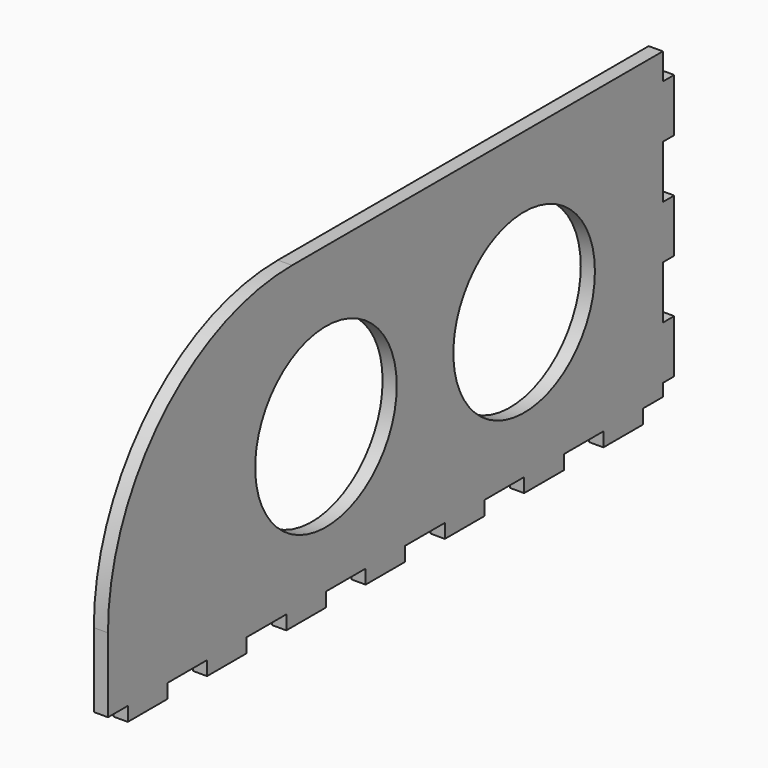
from build123d import *

# Parameters (mm, degrees)
SKETCH065_W     = 200
SKETCH065_H     = 90
PAD032_DEPTH    = 4
SKETCH064_R     = 25
SKETCH064_W     = 7
SKETCH064_H     = 4
SKETCH064_W_2   = 14
SKETCH064_W_3   = 4
SKETCH064_H_2   = 15
SKETCH064_H_3   = 7.5
POCKET028_DEPTH = 4
FILLET001_R     = 65


with BuildPart() as part:
    # Sketch065 → Pad032 (new body)
    with BuildSketch(Plane.YZ):
        Rectangle(SKETCH065_W, SKETCH065_H)
    extrude(amount=PAD032_DEPTH)

    # Sketch064 (on Face6 of Pad032) → Pocket028 (cut)
    with BuildSketch(Plane.YZ.offset(4)):
        with Locations((-23, 0)):
            Circle(SKETCH064_R)
        with Locations((47, 0)):
            Circle(SKETCH064_R)
        with Locations((-96.5, -43)):
            Rectangle(SKETCH064_W, SKETCH064_H)
        with Locations((-72, -43)):
            Rectangle(SKETCH064_W_2, SKETCH064_H)
        with Locations((-44, -43)):
            Rectangle(SKETCH064_W_2, SKETCH064_H)
        with Locations((-16, -43)):
            Rectangle(SKETCH064_W_2, SKETCH064_H)
        with Locations((12, -43)):
            Rectangle(SKETCH064_W_2, SKETCH064_H)
        with Locations((40, -43)):
            Rectangle(SKETCH064_W_2, SKETCH064_H)
        with Locations((68, -43)):
            Rectangle(SKETCH064_W_2, SKETCH064_H)
        with Locations((98, -15)):
            Rectangle(SKETCH064_W_3, SKETCH064_H_2)
        with Locations((98, 15)):
            Rectangle(SKETCH064_W_3, SKETCH064_H_2)
        with Locations((98, 41.25)):
            Rectangle(SKETCH064_W_3, SKETCH064_H_3)
        Polygon((89, -45), (89, -41), (96, -41), (96, -37.5), (100, -37.5), (100, -45), align=None)
    extrude(amount=-POCKET028_DEPTH, mode=Mode.SUBTRACT)

    # Fillet001
    fillet001_edges = [part.edges().sort_by_distance(p)[0] for p in [
        (2, -100, 45),
    ]]
    fillet(fillet001_edges, radius=FILLET001_R)


with BuildPart() as part_1:
    # Body032 placement: moved
    add(part.part.moved(Location((-340, -402, 0))))


solid = part_1.part
